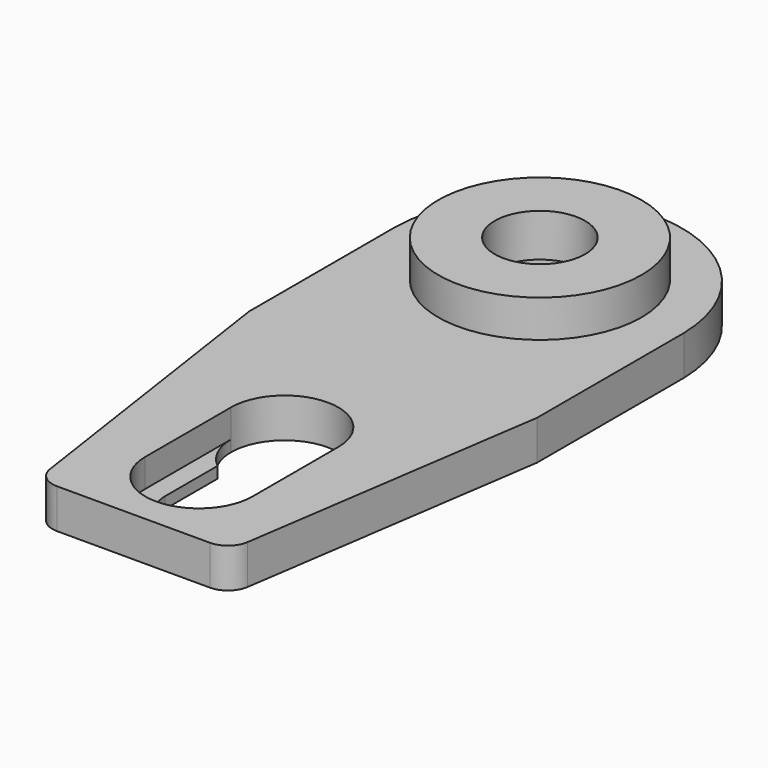
from build123d import *

# Parameters (mm, degrees)
F0_R     = 9
F1_DEPTH = 3.5
F2_DEPTH = 1
F0_R_2   = 6.25
F0_R_3   = 4
F3_DEPTH = 6.8
F4_DEPTH = 3


with BuildPart() as f1:
    # F0 (on Top) → F1 (new body)
    with BuildSketch(Plane.XY):
        with BuildLine():
            ThreePointArc((-8.752417, -27.042474), (-8.080641, -28.264092), (-6.773918, -28.75))
            Line((-6.773918, -28.75), (6.773918, -28.75))
            ThreePointArc((6.773918, -28.75), (8.080641, -28.264092), (8.752417, -27.042474))
            Line((8.752417, -27.042474), (12.75, 0))
            Line((12.75, 0), (12.75, 16.25))
            ThreePointArc((12.75, 16.25), (0, 28.75), (-12.75, 16.25))
            Line((-12.75, 16.25), (-12.75, 0))
            Line((-12.75, 0), (-8.752417, -27.042474))
        make_face()
        with BuildLine():
            Line((-4.75, -21.5), (-4.75, -12))
            ThreePointArc((-4.75, -12), (0, -7.25), (4.75, -12))
            Line((4.75, -12), (4.75, -21.5))
            ThreePointArc((4.75, -21.5), (0, -26.25), (-4.75, -21.5))
        make_face(mode=Mode.SUBTRACT)
        with Locations((0, 16.25)):
            Circle(F0_R, mode=Mode.SUBTRACT)
        with BuildLine():
            ThreePointArc((-8.752417, -27.042474), (-8.080641, -28.264092), (-6.773918, -28.75))
            Line((-6.773918, -28.75), (6.773918, -28.75))
            ThreePointArc((6.773918, -28.75), (8.080641, -28.264092), (8.752417, -27.042474))
            Line((8.752417, -27.042474), (12.75, 0))
            Line((12.75, 0), (12.75, 16.25))
            ThreePointArc((12.75, 16.25), (0, 28.75), (-12.75, 16.25))
            Line((-12.75, 16.25), (-12.75, 0))
            Line((-12.75, 0), (-8.752417, -27.042474))
        make_face()
        with BuildLine():
            Line((-4.75, -21.5), (-4.75, -12))
            ThreePointArc((-4.75, -12), (0, -7.25), (4.75, -12))
            Line((4.75, -12), (4.75, -21.5))
            ThreePointArc((4.75, -21.5), (0, -26.25), (-4.75, -21.5))
        make_face(mode=Mode.SUBTRACT)
        with Locations((0, 16.25)):
            Circle(F0_R, mode=Mode.SUBTRACT)
    extrude(amount=F1_DEPTH)

    # F0 (on Top) → F2 (join)
    with BuildSketch(Plane.XY):
        with BuildLine():
            ThreePointArc((-3, -15.68273), (-4.290251, -14.038688), (-4.75, -12))
            Line((-4.75, -12), (-4.75, -21.5))
            ThreePointArc((-4.75, -21.5), (0, -26.25), (4.75, -21.5))
            Line((4.75, -21.5), (4.75, -12))
            ThreePointArc((4.75, -12), (4.290251, -14.038688), (3, -15.68273))
            Line((3, -15.68273), (3, -21.5))
            ThreePointArc((3, -21.5), (0, -24.5), (-3, -21.5))
            Line((-3, -21.5), (-3, -15.68273))
        make_face()
    extrude(amount=F2_DEPTH)

    # F0 (on Top) → F3 (join)
    with BuildSketch(Plane.XY):
        with Locations((0, 16.25)):
            Circle(F0_R)
        with Locations((0, 16.25)):
            Circle(F0_R_2, mode=Mode.SUBTRACT)
        with Locations((0, 16.25)):
            Circle(F0_R_2)
        with Locations((0, 16.25)):
            Circle(F0_R_3, mode=Mode.SUBTRACT)
    extrude(amount=F3_DEPTH)

    # F0 (on Top) → F4 (cut)
    with BuildSketch(Plane.XY):
        with Locations((0, 16.25)):
            Circle(F0_R_2)
        with Locations((0, 16.25)):
            Circle(F0_R_3, mode=Mode.SUBTRACT)
    extrude(amount=F4_DEPTH, mode=Mode.SUBTRACT)


solid = f1.part
